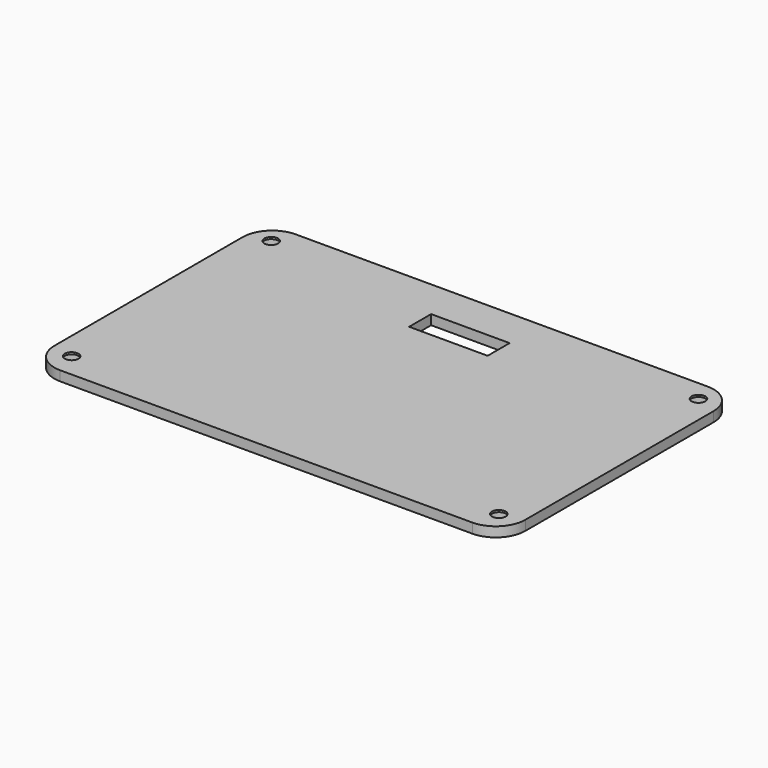
from build123d import *

# Parameters (mm, degrees)
F0_W      = 120
F0_H      = 75
F1_DEPTH  = 2.5
F2_R      = 7.5
F4_DEPTH  = 2.5
F6_R      = 2.702459
F6_R_2    = 2.81209
F6_R_3    = 2.881868
F6_R_4    = 2.925727
F7_DEPTH  = 2
F5_R      = 1.75775
F5_R_2    = 1.75
F8_DEPTH  = 25
F9_W      = 20
F9_H      = 7
F10_DEPTH = 25


with BuildPart() as f1:
    # F0 (on Top) → F1 (new body)
    with BuildSketch(Plane.XY):
        with Locations((0.016714, -0.087802)):
            Rectangle(F0_W, F0_H)
        Polygon((54.356078, -27.587802), (50.016714, -27.587802), (50.016714, -31.433773), (-49.983286, -31.433773), (-49.983286, -27.587802), (-54.489789, -27.587802), (-54.489789, 27.412198), (-49.983286, 27.412198), (-49.983286, 32.136187), (50.016714, 32.136187), (50.016714, 27.412198), (54.356078, 27.412198), align=None, mode=Mode.SUBTRACT)
    extrude(amount=F1_DEPTH)

    # F2
    f2_edges = [f1.edges().sort_by_distance(p)[0] for p in [
        (-59.983286, 37.412198, 1.25),
        (-59.983286, -37.587802, 1.25),
        (60.016714, -37.587802, 1.25),
        (60.016714, 37.412198, 1.25),
    ]]
    fillet(f2_edges, radius=F2_R)

    # F3 (on Top) → F4 (join)
    with BuildSketch(Plane.XY):
        Polygon((50.016714, -31.433773), (50.016714, -27.587802), (54.356078, -27.587802), (54.356078, 27.412198), (50.016714, 27.412198), (50.016714, 32.136187), (-49.983286, 32.136187), (-49.983286, 27.412198), (-54.489789, 27.412198), (-54.489789, -27.587802), (-49.983286, -27.587802), (-49.983286, -31.433773), align=None)
    extrude(amount=F4_DEPTH)

    # F6 (on face) → F7 (cut)
    with BuildSketch(Plane.XY):
        with Locations((54.343142, -31.448055)):
            Circle(F6_R)
        with Locations((-54.500151, -31.445347)):
            Circle(F6_R_2)
        with Locations((-54.540183, 32.076258)):
            Circle(F6_R_3)
        with Locations((54.324467, 32.097194)):
            Circle(F6_R_4)
    extrude(amount=F7_DEPTH, mode=Mode.SUBTRACT)

    # F5 (on Top) → F8 (cut)
    with BuildSketch(Plane.XY):
        with Locations((-54.489789, 32.136187)):
            Circle(F5_R)
        with Locations((54.356078, 32.136187)):
            Circle(F5_R_2)
        with Locations((54.356078, -31.433773)):
            Circle(F5_R_2)
        with Locations((-54.489789, -31.433773)):
            Circle(F5_R_2)
    extrude(amount=F8_DEPTH, mode=Mode.SUBTRACT)

    # F9 (on face) → F10 (cut)
    with BuildSketch(Plane.XY):
        with Locations((0.016714, 23.912198)):
            Rectangle(F9_W, F9_H)
    extrude(amount=F10_DEPTH, mode=Mode.SUBTRACT)


solid = f1.part
